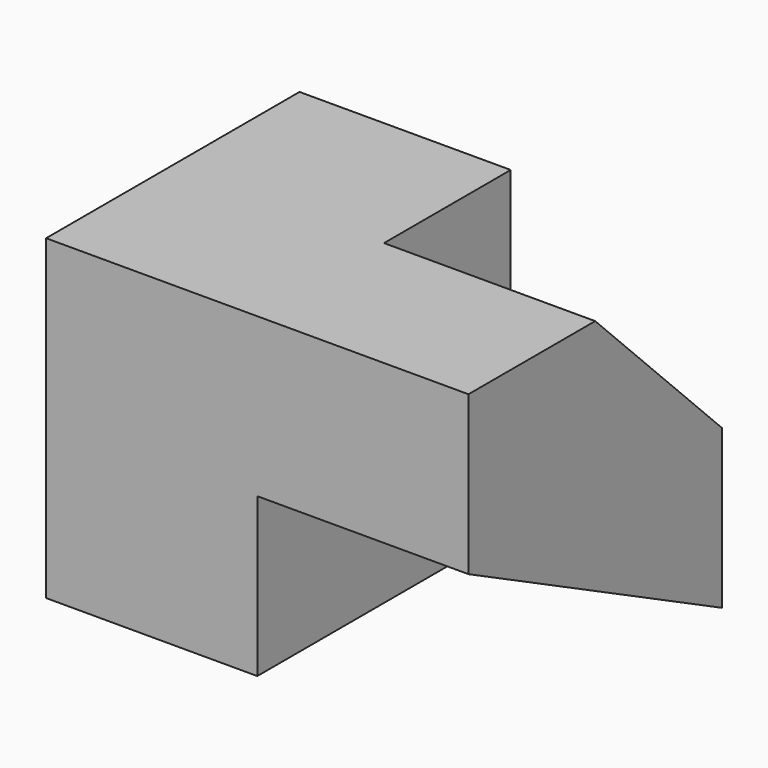
from build123d import *

# Parameters (mm, degrees)
F0_W     = 15
F0_H     = 15
F1_DEPTH = 20
F2_DEPTH = 40
F4_DEPTH = 20
F6_DEPTH = 20
F8_DEPTH = 20


with BuildPart() as f1:
    # F0 (on Right) → F1 (new body)
    with BuildSketch(Plane.YZ):
        with Locations((7.5, 7.5)):
            Rectangle(F0_W, F0_H)
        with Locations((22.5, 7.5)):
            Rectangle(F0_W, F0_H)
        with Locations((7.5, 22.5)):
            Rectangle(F0_W, F0_H)
        with Locations((22.5, 22.5)):
            Rectangle(F0_W, F0_H)
    extrude(amount=F1_DEPTH)

    # F0 (on Right) → F2 (join)
    with BuildSketch(Plane.YZ):
        with Locations((22.5, 7.5)):
            Rectangle(F0_W, F0_H)
        with Locations((22.5, 22.5)):
            Rectangle(F0_W, F0_H)
        with Locations((7.5, 22.5)):
            Rectangle(F0_W, F0_H)
    extrude(amount=F2_DEPTH)

    # F3 (on face) → F4 (cut)
    with BuildSketch(Plane.YZ.offset(40)):
        Polygon((30, 30), (15, 30), (30, 15), align=None)
    extrude(amount=-F4_DEPTH, mode=Mode.SUBTRACT)

    # F5 (on face) → F6 (join)
    with BuildSketch(Plane.YZ.offset(20)):
        Polygon((15, 15), (0, 15), (15, 0), align=None)
    extrude(amount=F6_DEPTH)

    # F7 (on face) → F8 (cut)
    with BuildSketch(Plane.YZ.offset(40)):
        Polygon((30, 0), (0, 15), (15, 0), align=None)
    extrude(amount=-F8_DEPTH, mode=Mode.SUBTRACT)


solid = f1.part
